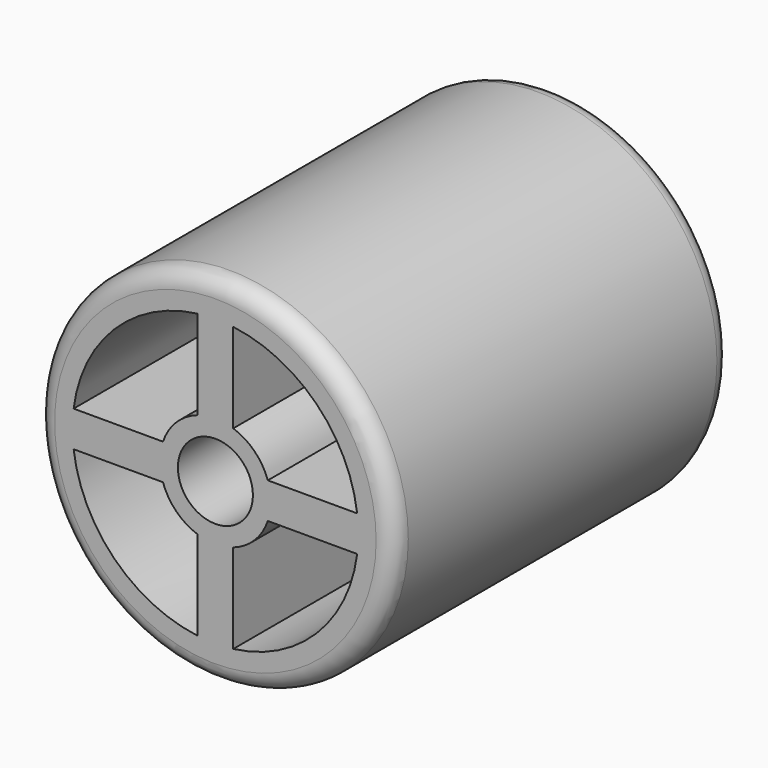
from build123d import *

# Parameters (mm, degrees)
F0_R     = 5
F0_R_2   = 1.05
F1_DEPTH = 5.9
F2_R     = 0.5


with BuildPart() as f1:
    # F0 (on Front) → F1 (new body, symmetric)
    with BuildSketch(Plane.XZ):
        Circle(F0_R)
        with BuildLine():
            Line((-3.9686269666, -0.5), (-1.4671400751, -0.5))
            ThreePointArc((-1.4671400751, -0.5), (-1.0960155108, -1.0960155108), (-0.5, -1.4671400751))
            Line((-0.5, -1.4671400751), (-0.5, -3.9686269666))
            ThreePointArc((-0.5, -3.9686269666), (-2.8284271247, -2.8284271247), (-3.9686269666, -0.5))
        make_face(mode=Mode.SUBTRACT)
        with BuildLine():
            Line((1.4671400751, -0.5), (3.9686269666, -0.5))
            ThreePointArc((3.9686269666, -0.5), (2.8284271247, -2.8284271247), (0.5, -3.9686269666))
            Line((0.5, -3.9686269666), (0.5, -1.4671400751))
            ThreePointArc((0.5, -1.4671400751), (1.0960155108, -1.0960155108), (1.4671400751, -0.5))
        make_face(mode=Mode.SUBTRACT)
        with BuildLine():
            ThreePointArc((-3.9686269666, 0.5), (-2.8284271247, 2.8284271247), (-0.5, 3.9686269666))
            Line((-0.5, 3.9686269666), (-0.5, 1.4671400751))
            ThreePointArc((-0.5, 1.4671400751), (-1.0960155108, 1.0960155108), (-1.4671400751, 0.5))
            Line((-1.4671400751, 0.5), (-3.9686269666, 0.5))
        make_face(mode=Mode.SUBTRACT)
        Circle(F0_R_2, mode=Mode.SUBTRACT)
        with BuildLine():
            ThreePointArc((0.5, 3.9686269666), (2.8284271247, 2.8284271247), (3.9686269666, 0.5))
            Line((3.9686269666, 0.5), (1.4671400751, 0.5))
            ThreePointArc((1.4671400751, 0.5), (1.0960155108, 1.0960155108), (0.5, 1.4671400751))
            Line((0.5, 1.4671400751), (0.5, 3.9686269666))
        make_face(mode=Mode.SUBTRACT)
    extrude(amount=F1_DEPTH, both=True)

    # F2
    f2_edges = [f1.edges().sort_by_distance(p)[0] for p in [
        (-5, -5.9, 0),
        (-5, 5.9, 0),
    ]]
    fillet(f2_edges, radius=F2_R)


solid = f1.part
